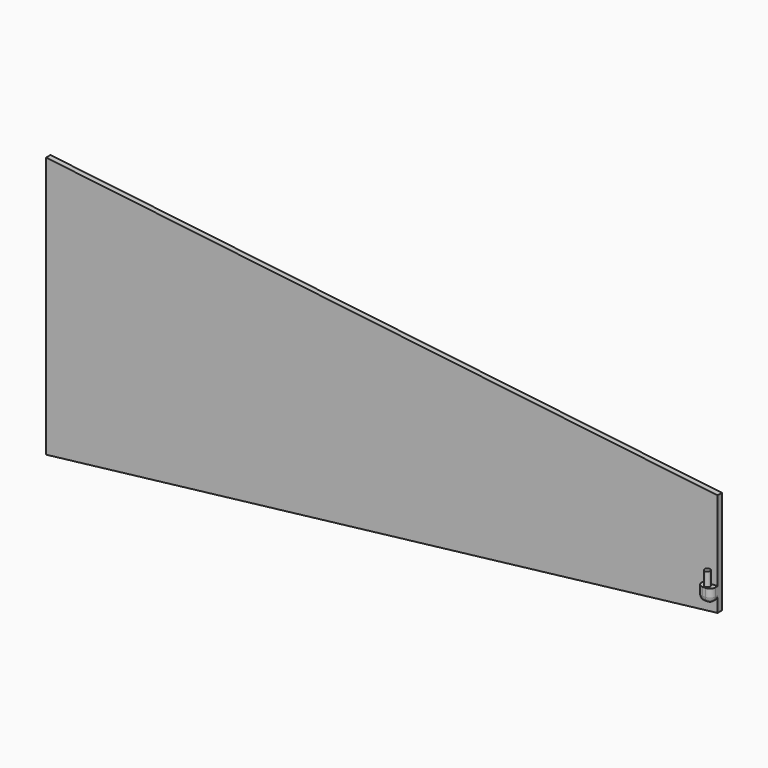
from build123d import *

# Parameters (mm, degrees)
F1_DEPTH = 2
F0_W     = 5
F0_H     = 5
F2_DEPTH = 5
F3_R     = 1
F4_DEPTH = 5
F5_R     = 2


with BuildPart() as f1:
    # F0 (on Front) → F1 (new body)
    with BuildSketch(Plane.XZ):
        Polygon((122.376468, -10.288223), (122.376468, 18.867619), (-122.376468, 47.667619), (-122.376468, 27.667619), (-122.376468, 22.667619), (-122.376468, -47.667619), (122.376468, -18.867619), (122.376468, -15.288223), (117.376468, -15.288223), (117.376468, -10.288223), align=None)
    extrude(amount=F1_DEPTH)

    # F0 (on Front) → F2 (join)
    with BuildSketch(Plane.XZ):
        with Locations((119.876468, -12.788223)):
            Rectangle(F0_W, F0_H)
    extrude(amount=F2_DEPTH)

    # F3 (on face) → F4 (join)
    with BuildSketch(Plane.XY.offset(-10.288223)):
        with Locations((119.876468, -3.5)):
            Circle(F3_R)
    extrude(amount=F4_DEPTH)

    # F5
    f5_edges = [f1.edges().sort_by_distance(p)[0] for p in [
        (119.876468, -5, -15.288223),
        (122.376468, -5, -12.788223),
        (122.376468, -3.5, -15.288223),
        (117.376468, -3.5, -15.288223),
        (117.376468, -5, -12.788223),
    ]]
    fillet(f5_edges, radius=F5_R)


solid = f1.part
